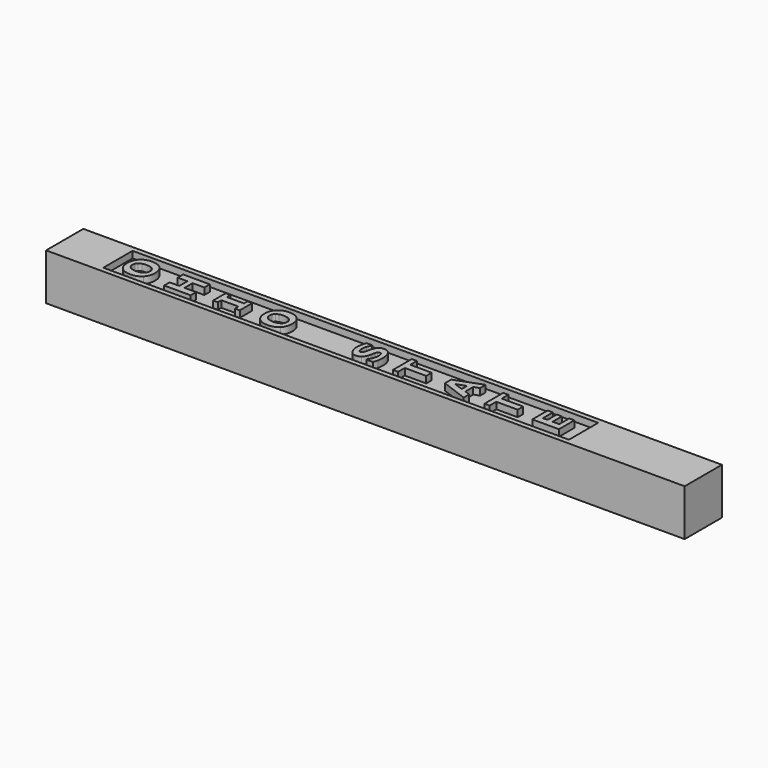
from build123d import *

# Parameters (mm, degrees)
F0_W     = 88.9
F0_H     = 88.9
F1_DEPTH = 1219.2
F2_W     = 889
F2_H     = 69.85
F3_DEPTH = 12.7


with BuildPart() as f1:
    # F0 (on Right) → F1 (new body)
    with BuildSketch(Plane.YZ):
        with Locations((44.45, 44.45)):
            Rectangle(F0_W, F0_H)
    extrude(amount=F1_DEPTH)

    # F2 (on face) → F3 (cut)
    with BuildSketch(Plane.XY.offset(88.9)):
        with Locations((546.1, 44.45)):
            Rectangle(F2_W, F2_H)
        with BuildLine():
            add(Edge.make_bspline(
                [(127.0000040531, 63.3076150011), (131.7308750354, 67.9702496135), (138.1789604501, 70.3015704132), (146.3442533101, 70.3015704132)],
                knots=[0, 0, 0, 0, 1, 1, 1, 1], degree=3))
            add(Edge.make_bspline(
                [(146.3442533101, 70.3015704132), (154.4413237746, 70.3015704132), (160.878041119, 67.9816386451), (165.6544053436, 63.3417681217)],
                knots=[0, 0, 0, 0, 1, 1, 1, 1], degree=3))
            add(Edge.make_bspline(
                [(165.6544053436, 63.3417681217), (170.4080054792, 58.7018626626), (172.7848055469, 52.2878744714), (172.7848055469, 44.0998105352)],
                knots=[0, 0, 0, 0, 1, 1, 1, 1], degree=3))
            add(Edge.make_bspline(
                [(172.7848055469, 44.0998105352), (172.7848055469, 35.9345106881), (170.4080054792, 29.5319115285), (165.6544053436, 24.8920060694)],
                knots=[0, 0, 0, 0, 1, 1, 1, 1], degree=3))
            add(Edge.make_bspline(
                [(165.6544053436, 24.8920060694), (160.878041119, 20.252135546), (154.4413237746, 17.9322037779), (146.3442533101, 17.9322037779)],
                knots=[0, 0, 0, 0, 1, 1, 1, 1], degree=3))
            add(Edge.make_bspline(
                [(146.3442533101, 17.9322037779), (138.1789604501, 17.9322037779), (131.7308750354, 20.252135546), (127.0000040531, 24.8920060694)],
                knots=[0, 0, 0, 0, 1, 1, 1, 1], degree=3))
            add(Edge.make_bspline(
                [(127.0000040531, 24.8920060694), (122.2463689819, 29.5319115285), (119.8695479527, 35.9345106881), (119.8695479527, 44.0998105352)],
                knots=[0, 0, 0, 0, 1, 1, 1, 1], degree=3))
            add(Edge.make_bspline(
                [(119.8695479527, 44.0998105352), (119.8695479527, 52.242374242), (122.2463689819, 58.6449803887), (127.0000040531, 63.3076150011)],
                knots=[0, 0, 0, 0, 1, 1, 1, 1], degree=3))
        make_face(mode=Mode.SUBTRACT)
        Polygon((208.2663763431, 66.8557944395), (259.0663763431, 66.8557944395), (259.0663763431, 53.7549145005), (236.685741383, 53.7549145005), (236.685741383, 34.4106093464), (259.0663763431, 34.4106093464), (259.0663763431, 21.3097294074), (208.2663763431, 21.3097294074), (208.2663763431, 34.4106093464), (226.860095403, 34.4106093464), (226.860095403, 53.7549145005), (208.2663763431, 53.7549145005), align=None, mode=Mode.SUBTRACT)
        Polygon((337.3987663948, 58.9406550214), (346.4055759364, 58.9406550214), (346.4055759364, 29.190771602), (337.3987663948, 29.190771602), (337.3987663948, 37.5152453937), (304.6124413752, 37.5152453937), (304.6124413752, 29.190771602), (295.6055759364, 29.190771602), (295.6055759364, 58.9406550214), (304.6124413752, 58.9406550214), (304.6124413752, 50.6161253327), (337.3987663948, 50.6161253327), align=None, mode=Mode.SUBTRACT)
        with BuildLine():
            add(Edge.make_bspline(
                [(389.0176028331, 63.3076150011), (393.7484738153, 67.9702496135), (400.19655923, 70.3015704132), (408.3618520901, 70.3015704132)],
                knots=[0, 0, 0, 0, 1, 1, 1, 1], degree=3))
            add(Edge.make_bspline(
                [(408.3618520901, 70.3015704132), (416.4589225545, 70.3015704132), (422.895639899, 67.9816386451), (427.6720041235, 63.3417681217)],
                knots=[0, 0, 0, 0, 1, 1, 1, 1], degree=3))
            add(Edge.make_bspline(
                [(427.6720041235, 63.3417681217), (432.4256042591, 58.7018626626), (434.8024043269, 52.2878744714), (434.8024043269, 44.0998105352)],
                knots=[0, 0, 0, 0, 1, 1, 1, 1], degree=3))
            add(Edge.make_bspline(
                [(434.8024043269, 44.0998105352), (434.8024043269, 35.9345106881), (432.4256042591, 29.5319115285), (427.6720041235, 24.8920060694)],
                knots=[0, 0, 0, 0, 1, 1, 1, 1], degree=3))
            add(Edge.make_bspline(
                [(427.6720041235, 24.8920060694), (422.895639899, 20.252135546), (416.4589225545, 17.9322037779), (408.3618520901, 17.9322037779)],
                knots=[0, 0, 0, 0, 1, 1, 1, 1], degree=3))
            add(Edge.make_bspline(
                [(408.3618520901, 17.9322037779), (400.19655923, 17.9322037779), (393.7484738153, 20.252135546), (389.0176028331, 24.8920060694)],
                knots=[0, 0, 0, 0, 1, 1, 1, 1], degree=3))
            add(Edge.make_bspline(
                [(389.0176028331, 24.8920060694), (384.2639677618, 29.5319115285), (381.8871467326, 35.9345106881), (381.8871467326, 44.0998105352)],
                knots=[0, 0, 0, 0, 1, 1, 1, 1], degree=3))
            add(Edge.make_bspline(
                [(381.8871467326, 44.0998105352), (381.8871467326, 52.242374242), (384.2639677618, 58.6449803887), (389.0176028331, 63.3076150011)],
                knots=[0, 0, 0, 0, 1, 1, 1, 1], degree=3))
        make_face(mode=Mode.SUBTRACT)
        Polygon((644.9623743097, 66.514598616), (654.7880202897, 66.514598616), (654.7880202897, 50.6502784533), (695.7623743097, 50.6502784533), (695.7623743097, 37.5493985143), (654.7880202897, 37.5493985143), (654.7880202897, 21.6850224545), (644.9623743097, 21.6850224545), align=None, mode=Mode.SUBTRACT)
        Polygon((732.301573903, 51.6055596828), (783.101573903, 70.3698207574), (783.101573903, 56.8253974272), (772.8324404289, 53.3113711093), (772.8324404289, 34.4788596906), (783.101573903, 30.9648333727), (783.101573903, 17.7616058661), (732.301573903, 36.5258669407), align=None, mode=Mode.SUBTRACT)
        Polygon((819.6407734963, 66.514598616), (829.4664194763, 66.514598616), (829.4664194763, 50.6502784533), (870.4407734963, 50.6502784533), (870.4407734963, 37.5493985143), (829.4664194763, 37.5493985143), (829.4664194763, 21.6850224545), (819.6407734963, 21.6850224545), align=None, mode=Mode.SUBTRACT)
        with BuildLine():
            add(Edge.make_bspline(
                [(583.927282162, 63.614657704), (586.1107761261, 65.4797199336), (588.9538487384, 66.4122510483), (592.4565069861, 66.4122510483)],
                knots=[0, 0, 0, 0, 1, 1, 1, 1], degree=3))
            add(Edge.make_bspline(
                [(592.4565069861, 66.4122510483), (597.4603024864, 66.4122510483), (601.5315878333, 64.2856253838), (604.6703560397, 60.0323810421)],
                knots=[0, 0, 0, 0, 1, 1, 1, 1], degree=3))
            add(Edge.make_bspline(
                [(604.6703560397, 60.0323810421), (607.7863601572, 55.8019007892), (609.3443587223, 50.0475401562), (609.3443587223, 42.7692921558)],
                knots=[0, 0, 0, 0, 1, 1, 1, 1], degree=3))
            add(Edge.make_bspline(
                [(609.3443587223, 42.7692921558), (609.3443587223, 38.5615061206), (608.9804547069, 34.8882499612), (608.2526327017, 31.7495166904)],
                knots=[0, 0, 0, 0, 1, 1, 1, 1], degree=3))
            add(Edge.make_bspline(
                [(608.2526327017, 31.7495166904), (607.5020466075, 28.633512573), (606.5581334483, 25.7108425077), (605.4208862368, 22.9814995076)],
                knots=[0, 0, 0, 0, 1, 1, 1, 1], degree=3))
            Line((605.4208862368, 22.9814995076), (593.2411903038, 22.9814995076))
            Line((593.2411903038, 22.9814995076), (593.2411903038, 24.4143654547))
            add(Edge.make_bspline(
                [(593.2411903038, 24.4143654547), (595.4019131917, 27.1209793015), (597.0622593246, 30.1460178958), (598.2222356893, 33.4894812376)],
                knots=[0, 0, 0, 0, 1, 1, 1, 1], degree=3))
            add(Edge.make_bspline(
                [(598.2222356893, 33.4894812376), (599.3822120541, 36.8556807198), (599.9622002365, 40.0854144494), (599.9622002365, 43.1786824264)],
                knots=[0, 0, 0, 0, 1, 1, 1, 1], degree=3))
            add(Edge.make_bspline(
                [(599.9622002365, 43.1786824264), (599.9622002365, 43.9747338143), (599.8940057894, 45.0209735798), (599.7576168954, 46.3174156971)],
                knots=[0, 0, 0, 0, 1, 1, 1, 1], degree=3))
            add(Edge.make_bspline(
                [(599.7576168954, 46.3174156971), (599.6212280013, 47.6138578145), (599.3937827513, 48.6714866116), (599.0752811453, 49.4903020885)],
                knots=[0, 0, 0, 0, 1, 1, 1, 1], degree=3))
            add(Edge.make_bspline(
                [(599.0752811453, 49.4903020885), (598.6658908747, 50.4910486117), (598.1541390622, 51.3098431272), (597.5400117335, 51.9466996092)],
                knots=[0, 0, 0, 0, 1, 1, 1, 1], degree=3))
            add(Edge.make_bspline(
                [(597.5400117335, 51.9466996092), (596.9259263276, 52.6062852446), (596.0161453275, 52.9360780622), (594.8106687333, 52.9360780622)],
                knots=[0, 0, 0, 0, 1, 1, 1, 1], degree=3))
            add(Edge.make_bspline(
                [(594.8106687333, 52.9360780622), (593.696192598, 52.9360780622), (592.7409323299, 52.4584584089), (591.944880942, 51.5032121151)],
                knots=[0, 0, 0, 0, 1, 1, 1, 1], degree=3))
            add(Edge.make_bspline(
                [(591.944880942, 51.5032121151), (591.1260654651, 50.5706600389), (590.5005770533, 49.1946064944), (590.0684157066, 47.3750444943)],
                knots=[0, 0, 0, 0, 1, 1, 1, 1], degree=3))
            add(Edge.make_bspline(
                [(590.0684157066, 47.3750444943), (589.6135252065, 45.4644820353), (589.1927528914, 43.4402039385), (588.8060917741, 41.302217191)],
                knots=[0, 0, 0, 0, 1, 1, 1, 1], degree=3))
            add(Edge.make_bspline(
                [(588.8060917741, 41.302217191), (588.3967015035, 39.1869945324), (587.884949691, 37.1968555819), (587.2708223623, 35.3317933524)],
                knots=[0, 0, 0, 0, 1, 1, 1, 1], degree=3))
            add(Edge.make_bspline(
                [(587.2708223623, 35.3317933524), (585.8834217089, 31.0558128702), (584.0069914092, 27.9739269376), (581.6415384502, 26.0861355548)],
                knots=[0, 0, 0, 0, 1, 1, 1, 1], degree=3))
            add(Edge.make_bspline(
                [(581.6415384502, 26.0861355548), (579.2533912736, 24.2210733253), (576.2966030234, 23.2885422105), (572.7711736997, 23.2885422105)],
                knots=[0, 0, 0, 0, 1, 1, 1, 1], degree=3))
            add(Edge.make_bspline(
                [(572.7711736997, 23.2885422105), (568.0403097046, 23.2885422105), (564.1851015374, 25.4037788434), (561.2055631725, 29.6342590962)],
                knots=[0, 0, 0, 0, 1, 1, 1, 1], degree=3))
            add(Edge.make_bspline(
                [(561.2055631725, 29.6342590962), (558.2032607187, 33.887503438), (556.7021025046, 39.3462103997), (556.7021025046, 46.0103729942)],
                knots=[0, 0, 0, 0, 1, 1, 1, 1], degree=3))
            add(Edge.make_bspline(
                [(556.7021025046, 46.0103729942), (556.7021025046, 49.3538363359), (557.0319162837, 52.6518064354), (557.6915368547, 55.9042693183)],
                knots=[0, 0, 0, 0, 1, 1, 1, 1], degree=3))
            add(Edge.make_bspline(
                [(557.6915368547, 55.9042693183), (558.328358401, 59.1794683416), (559.1357918334, 62.0111589094), (560.1138371519, 64.3993410217)],
                knots=[0, 0, 0, 0, 1, 1, 1, 1], degree=3))
            Line((560.1138371519, 64.3993410217), (571.8158924702, 64.3993410217))
            Line((571.8158924702, 64.3993410217), (571.8158924702, 63.0005722981))
            add(Edge.make_bspline(
                [(571.8158924702, 63.0005722981), (570.1782964521, 60.9535440866), (568.813624952, 58.440264292), (567.72187797, 55.4607259271)],
                knots=[0, 0, 0, 0, 1, 1, 1, 1], degree=3))
            add(Edge.make_bspline(
                [(567.72187797, 55.4607259271), (566.6074018346, 52.5039586383), (566.0501637669, 49.4789340183), (566.0501637669, 46.3856660413)],
                knots=[0, 0, 0, 0, 1, 1, 1, 1], degree=3))
            add(Edge.make_bspline(
                [(566.0501637669, 46.3856660413), (566.0501637669, 45.2939190592), (566.1297262842, 44.2021790643), (566.2888443316, 43.1104320823)],
                knots=[0, 0, 0, 0, 1, 1, 1, 1], degree=3))
            add(Edge.make_bspline(
                [(566.2888443316, 43.1104320823), (566.4252332257, 42.0414561763), (566.6981787051, 41.0065774939), (567.1076807699, 40.005796035)],
                knots=[0, 0, 0, 0, 1, 1, 1, 1], degree=3))
            add(Edge.make_bspline(
                [(567.1076807699, 40.005796035), (567.4490303104, 39.1187441883), (567.9721501932, 38.356797011), (568.6770474053, 37.719940529)],
                knots=[0, 0, 0, 0, 1, 1, 1, 1], degree=3))
            add(Edge.make_bspline(
                [(568.6770474053, 37.719940529), (569.359369181, 37.0831259698), (570.1440524987, 36.7647151966), (571.0310973583, 36.7647151966)],
                knots=[0, 0, 0, 0, 1, 1, 1, 1], degree=3))
            add(Edge.make_bspline(
                [(571.0310973583, 36.7647151966), (572.3730397051, 36.7647151966), (573.4079183875, 37.2764530349), (574.1357334056, 38.2999287114)],
                knots=[0, 0, 0, 0, 1, 1, 1, 1], degree=3))
            add(Edge.make_bspline(
                [(574.1357334056, 38.2999287114), (574.8408192703, 39.3234393236), (575.4890438226, 41.2567379229), (576.080393088, 44.0998105352)],
                knots=[0, 0, 0, 0, 1, 1, 1, 1], degree=3))
            add(Edge.make_bspline(
                [(576.080393088, 44.0998105352), (576.4670542053, 45.9648727648), (576.8423472524, 47.7503165799), (577.2062722293, 49.4561489679)],
                knots=[0, 0, 0, 0, 1, 1, 1, 1], degree=3))
            add(Edge.make_bspline(
                [(577.2062722293, 49.4561489679), (577.569980605, 51.1847454448), (578.070350373, 53.0384465913), (578.7073885206, 55.017238433)],
                knots=[0, 0, 0, 0, 1, 1, 1, 1], degree=3))
            add(Edge.make_bspline(
                [(578.7073885206, 55.017238433), (579.9811014846, 58.9065577979), (581.7210660318, 61.7723665506), (583.927282162, 63.614657704)],
                knots=[0, 0, 0, 0, 1, 1, 1, 1], degree=3))
        make_face(mode=Mode.SUBTRACT)
        Polygon((947.9543271097, 63.4441156893), (957.7799730897, 63.4441156893), (957.7799730897, 26.7002209607), (906.9799730897, 26.7002209607), (906.9799730897, 63.4441156893), (916.8056190696, 63.4441156893), (916.8056190696, 39.7328505556), (925.5736921496, 39.7328505556), (925.5736921496, 61.7382483657), (935.3993381295, 61.7382483657), (935.3993381295, 39.7328505556), (947.9543271097, 39.7328505556), align=None, mode=Mode.SUBTRACT)
        with BuildLine():
            add(Edge.make_bspline(
                [(162.2427265934, 48.9444111296), (161.5831060224, 50.4683124713), (160.5709564933, 51.7988727736), (159.2062849932, 52.9360780622)],
                knots=[0, 0, 0, 0, 1, 1, 1, 1], degree=3))
            add(Edge.make_bspline(
                [(159.2062849932, 52.9360780622), (157.6596544983, 54.2097840391), (155.8400924982, 55.1536832241), (153.7475989929, 55.76776863)],
                knots=[0, 0, 0, 0, 1, 1, 1, 1], degree=3))
            add(Edge.make_bspline(
                [(153.7475989929, 55.76776863), (151.6323413986, 56.3818889716), (149.1531937632, 56.688952636), (146.3101560866, 56.688952636)],
                knots=[0, 0, 0, 0, 1, 1, 1, 1], degree=3))
            add(Edge.make_bspline(
                [(146.3101560866, 56.688952636), (143.2623534033, 56.688952636), (140.6694551943, 56.3364097036), (138.5314614596, 55.6313238389)],
                knots=[0, 0, 0, 0, 1, 1, 1, 1], degree=3))
            add(Edge.make_bspline(
                [(138.5314614596, 55.6313238389), (136.3934747121, 54.9262379741), (134.6648922094, 54.0050889038), (133.3457209388, 52.8678836152)],
                knots=[0, 0, 0, 0, 1, 1, 1, 1], degree=3))
            add(Edge.make_bspline(
                [(133.3457209388, 52.8678836152), (131.9810494387, 51.7079072504), (130.9916570114, 50.3659649036), (130.3775296827, 48.842063562)],
                knots=[0, 0, 0, 0, 1, 1, 1, 1], degree=3))
            add(Edge.make_bspline(
                [(130.3775296827, 48.842063562), (129.7634442768, 47.3409263093), (129.4564015738, 45.771559674), (129.4564015738, 44.1339636559)],
                knots=[0, 0, 0, 0, 1, 1, 1, 1], degree=3))
            add(Edge.make_bspline(
                [(129.4564015738, 44.1339636559), (129.4564015738, 42.4735965616), (129.7520831937, 40.9042089648), (130.3434324592, 39.4258078526)],
                knots=[0, 0, 0, 0, 1, 1, 1, 1], degree=3))
            add(Edge.make_bspline(
                [(130.3434324592, 39.4258078526), (130.9347887118, 37.9701708294), (131.9127990946, 36.628249444), (133.2774705946, 35.4000436965)],
                knots=[0, 0, 0, 0, 1, 1, 1, 1], degree=3))
            add(Edge.make_bspline(
                [(133.2774705946, 35.4000436965), (134.5511835587, 34.2627964851), (136.3138982206, 33.3302653703), (138.5656145803, 32.6024503522)],
                knots=[0, 0, 0, 0, 1, 1, 1, 1], degree=3))
            add(Edge.make_bspline(
                [(138.5656145803, 32.6024503522), (140.794566851, 31.8973644875), (143.3874510857, 31.5448215551), (146.3442533101, 31.5448215551)],
                knots=[0, 0, 0, 0, 1, 1, 1, 1], degree=3))
            add(Edge.make_bspline(
                [(146.3442533101, 31.5448215551), (149.3692919044, 31.5448215551), (151.9508080689, 31.885982443), (154.0887948165, 32.5682972316)],
                knots=[0, 0, 0, 0, 1, 1, 1, 1], degree=3))
            add(Edge.make_bspline(
                [(154.0887948165, 32.5682972316), (156.204017475, 33.2733830964), (157.9325999777, 34.1945461409), (159.2745353373, 35.3317933524)],
                knots=[0, 0, 0, 0, 1, 1, 1, 1], degree=3))
            add(Edge.make_bspline(
                [(159.2745353373, 35.3317933524), (160.6164776841, 36.4689986411), (161.6058770985, 37.7995589433), (162.2427265934, 39.323460285)],
                knots=[0, 0, 0, 0, 1, 1, 1, 1], degree=3))
            add(Edge.make_bspline(
                [(162.2427265934, 39.323460285), (162.8795830754, 40.8473616266), (163.1980078229, 42.4508674083), (163.1980078229, 44.1339636559)],
                knots=[0, 0, 0, 0, 1, 1, 1, 1], degree=3))
            add(Edge.make_bspline(
                [(163.1980078229, 44.1339636559), (163.1980078229, 45.8170599034), (162.8795830754, 47.4205447237), (162.2427265934, 48.9444111296)],
                knots=[0, 0, 0, 0, 1, 1, 1, 1], degree=3))
        make_face()
        with BuildLine():
            add(Edge.make_bspline(
                [(424.2603253733, 48.9444111296), (423.6007048023, 50.4683124713), (422.5885552732, 51.7988727736), (421.2238837731, 52.9360780622)],
                knots=[0, 0, 0, 0, 1, 1, 1, 1], degree=3))
            add(Edge.make_bspline(
                [(421.2238837731, 52.9360780622), (419.6772532782, 54.2097840391), (417.8576912781, 55.1536832241), (415.7651977728, 55.76776863)],
                knots=[0, 0, 0, 0, 1, 1, 1, 1], degree=3))
            add(Edge.make_bspline(
                [(415.7651977728, 55.76776863), (413.6499401786, 56.3818889716), (411.1707925432, 56.688952636), (408.3277548665, 56.688952636)],
                knots=[0, 0, 0, 0, 1, 1, 1, 1], degree=3))
            add(Edge.make_bspline(
                [(408.3277548665, 56.688952636), (405.2799521833, 56.688952636), (402.6870539743, 56.3364097036), (400.5490602396, 55.6313238389)],
                knots=[0, 0, 0, 0, 1, 1, 1, 1], degree=3))
            add(Edge.make_bspline(
                [(400.5490602396, 55.6313238389), (398.411073492, 54.9262379741), (396.6824909894, 54.0050889038), (395.3633197187, 52.8678836152)],
                knots=[0, 0, 0, 0, 1, 1, 1, 1], degree=3))
            add(Edge.make_bspline(
                [(395.3633197187, 52.8678836152), (393.9986482186, 51.7079072504), (393.0092557914, 50.3659649036), (392.3951284626, 48.842063562)],
                knots=[0, 0, 0, 0, 1, 1, 1, 1], degree=3))
            add(Edge.make_bspline(
                [(392.3951284626, 48.842063562), (391.7810430567, 47.3409263093), (391.4740003538, 45.771559674), (391.4740003538, 44.1339636559)],
                knots=[0, 0, 0, 0, 1, 1, 1, 1], degree=3))
            add(Edge.make_bspline(
                [(391.4740003538, 44.1339636559), (391.4740003538, 42.4735965616), (391.7696819737, 40.9042089648), (392.3610312391, 39.4258078526)],
                knots=[0, 0, 0, 0, 1, 1, 1, 1], degree=3))
            add(Edge.make_bspline(
                [(392.3610312391, 39.4258078526), (392.9523874917, 37.9701708294), (393.9303978745, 36.628249444), (395.2950693746, 35.4000436965)],
                knots=[0, 0, 0, 0, 1, 1, 1, 1], degree=3))
            add(Edge.make_bspline(
                [(395.2950693746, 35.4000436965), (396.5687823386, 34.2627964851), (398.3314970005, 33.3302653703), (400.5832133602, 32.6024503522)],
                knots=[0, 0, 0, 0, 1, 1, 1, 1], degree=3))
            add(Edge.make_bspline(
                [(400.5832133602, 32.6024503522), (402.8121656309, 31.8973644875), (405.4050498656, 31.5448215551), (408.3618520901, 31.5448215551)],
                knots=[0, 0, 0, 0, 1, 1, 1, 1], degree=3))
            add(Edge.make_bspline(
                [(408.3618520901, 31.5448215551), (411.3868906844, 31.5448215551), (413.9684068489, 31.885982443), (416.1063935964, 32.5682972316)],
                knots=[0, 0, 0, 0, 1, 1, 1, 1], degree=3))
            add(Edge.make_bspline(
                [(416.1063935964, 32.5682972316), (418.221616255, 33.2733830964), (419.9501987576, 34.1945461409), (421.2921341173, 35.3317933524)],
                knots=[0, 0, 0, 0, 1, 1, 1, 1], degree=3))
            add(Edge.make_bspline(
                [(421.2921341173, 35.3317933524), (422.6340764641, 36.4689986411), (423.6234758785, 37.7995589433), (424.2603253733, 39.323460285)],
                knots=[0, 0, 0, 0, 1, 1, 1, 1], degree=3))
            add(Edge.make_bspline(
                [(424.2603253733, 39.323460285), (424.8971818554, 40.8473616266), (425.2156066028, 42.4508674083), (425.2156066028, 44.1339636559)],
                knots=[0, 0, 0, 0, 1, 1, 1, 1], degree=3))
            add(Edge.make_bspline(
                [(425.2156066028, 44.1339636559), (425.2156066028, 45.8170599034), (424.8971818554, 47.4205447237), (424.2603253733, 48.9444111296)],
                knots=[0, 0, 0, 0, 1, 1, 1, 1], degree=3))
        make_face()
        Polygon((763.5185322872, 37.6517460819), (763.5185322872, 50.1384847179), (745.3001062744, 43.8951153999), align=None)
    extrude(amount=-F3_DEPTH, mode=Mode.SUBTRACT)


solid = f1.part
